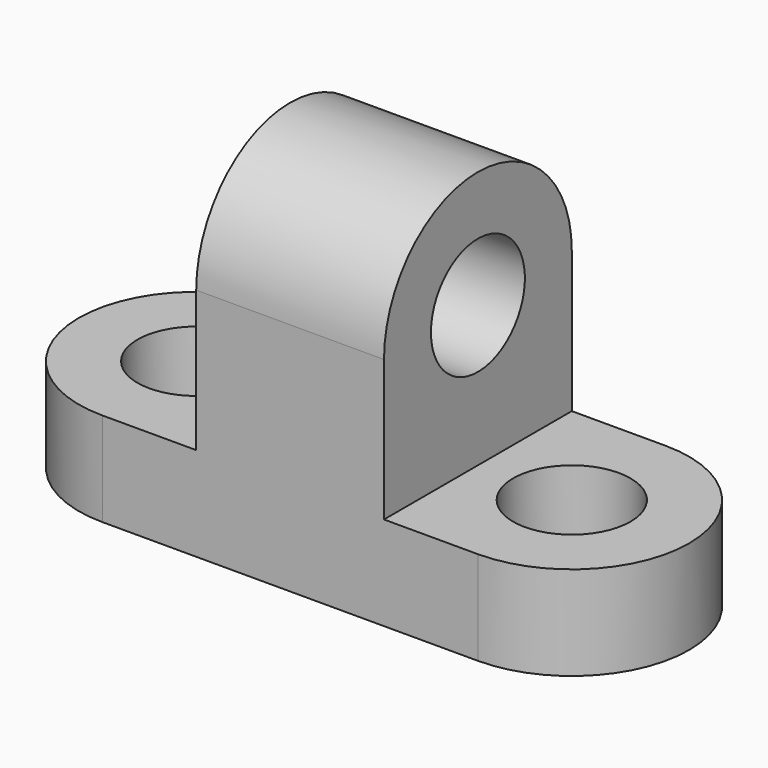
from build123d import *

# Parameters (mm, degrees)
F0_W      = 20
F0_H      = 20
F1_DEPTH  = 25
F2_DEPTH  = 25
F4_DEPTH  = 20
F6_DEPTH  = 40
F7_R      = 12.5
F8_DEPTH  = 25
F9_R      = 12.5
F10_DEPTH = 25
F11_R     = 12.5
F12_DEPTH = 85.001


with BuildPart() as f1:
    # F0 (on Front) → F1 (new body)
    with BuildSketch(Plane.XZ):
        Polygon((0, 20), (0, 0), (40, 0), (40, 20), (40, 50), (0, 50), align=None)
        with Locations((-10, 10)):
            Rectangle(F0_W, F0_H)
        with Locations((50, 10)):
            Rectangle(F0_W, F0_H)
    extrude(amount=F1_DEPTH)

    # F1_face (on face) → F2 (join)
    with BuildSketch(Plane(origin=(20, -25, 20.714286), x_dir=(1, 0, 0), z_dir=(0, -1, 0))):
        Polygon((-20, 29.285714), (-20, -0.714286), (-40, -0.714286), (-40, -20.714286), (40, -20.714286), (40, -0.714286), (20, -0.714286), (20, 29.285714), align=None)
    extrude(amount=F2_DEPTH)

    # F3 (on face) → F4 (join)
    with BuildSketch(Plane(origin=(0, 0, 0), x_dir=(1, 0, 0), z_dir=(0, 0, -1))):
        with BuildLine():
            ThreePointArc((-20, 50), (-45, 25), (-20, 0))
            Line((-20, 0), (-20, 50))
        make_face()
        with BuildLine():
            Line((60, 50), (60, 0))
            ThreePointArc((60, 0), (85, 25), (60, 50))
        make_face()
    extrude(amount=-F4_DEPTH)

    # F5 (on face) → F6 (join)
    with BuildSketch(Plane.YZ.offset(40)):
        with BuildLine():
            Line((-50, 50), (0, 50))
            ThreePointArc((0, 50), (-25, 75), (-50, 50))
        make_face()
    extrude(amount=-F6_DEPTH)

    # F7 (on face) → F8 (cut)
    with BuildSketch(Plane.XY.offset(20)):
        with Locations((60, -25)):
            Circle(F7_R)
    extrude(amount=-F8_DEPTH, mode=Mode.SUBTRACT)

    # F9 (on face) → F10 (cut)
    with BuildSketch(Plane.XY.offset(20)):
        with Locations((-20, -25)):
            Circle(F9_R)
    extrude(amount=-F10_DEPTH, mode=Mode.SUBTRACT)

    # F11 (on face) → F12 (cut, through all)
    with BuildSketch(Plane(origin=(0, 0, 0), x_dir=(0, -1, 0), z_dir=(-1, 0, 0))):
        with Locations((25, 50)):
            Circle(F11_R)
    extrude(amount=-F12_DEPTH, mode=Mode.SUBTRACT)


solid = f1.part
